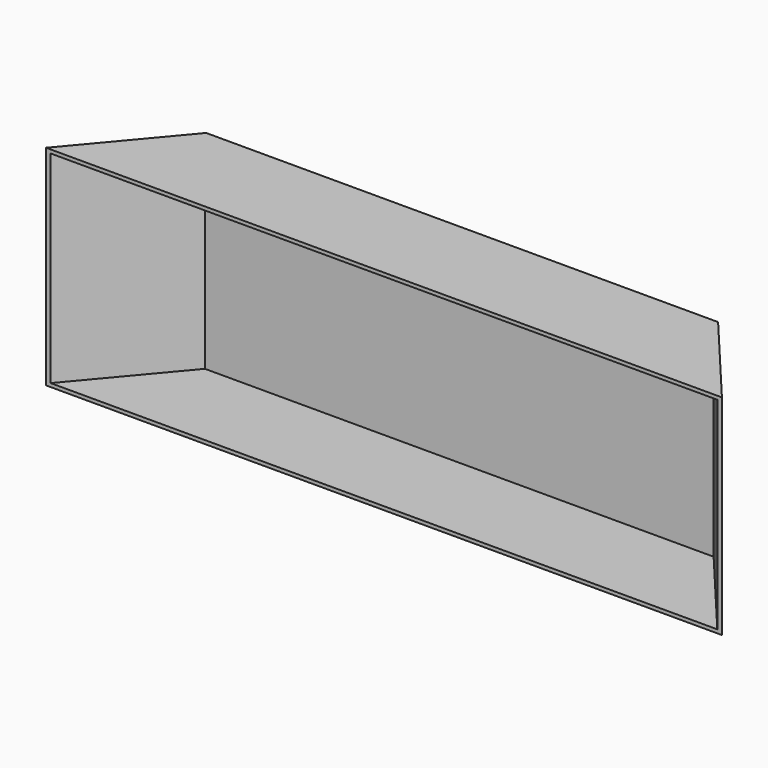
from build123d import *

# Parameters (mm, degrees)
F0_W     = 367.0583882955
F0_H     = 150
F1_DEPTH = 70
F1_TAPER = -40
F3_DEPTH = 180.4313063622
F4_T     = -2.54


with BuildPart() as f1:
    # F0 (on Front) → F1 (new body)
    with BuildSketch(Plane.XZ):
        Rectangle(F0_W, F0_H)
    extrude(amount=F1_DEPTH, taper=F1_TAPER)

    # F2 (on face) → F3 (cut)
    with BuildSketch(Plane(origin=(0, 0, 0), x_dir=(-1, 0, 0), z_dir=(0, 1, 0))):
        Polygon((273.2922434807, -75), (183.5291941477, -75), (-183.5291941477, -75), (-315.6023919582, -75), (-315.6023919582, -152.7352780104), (273.2922434807, -152.7352780104), align=None)
        Polygon((183.5291941477, 75), (257.0646107197, 75), (257.0646107197, 213.5136723518), (-302.473783493, 213.5136723518), (-302.473783493, 75), (-183.5291941477, 75), align=None)
    extrude(amount=-F3_DEPTH, mode=Mode.SUBTRACT)

    # F4
    f4_openings = [f1.faces().sort_by_distance(p)[0] for p in [
        (0, -70, 0),
    ]]
    offset(amount=F4_T, openings=f4_openings, kind=Kind.INTERSECTION)


solid = f1.part
